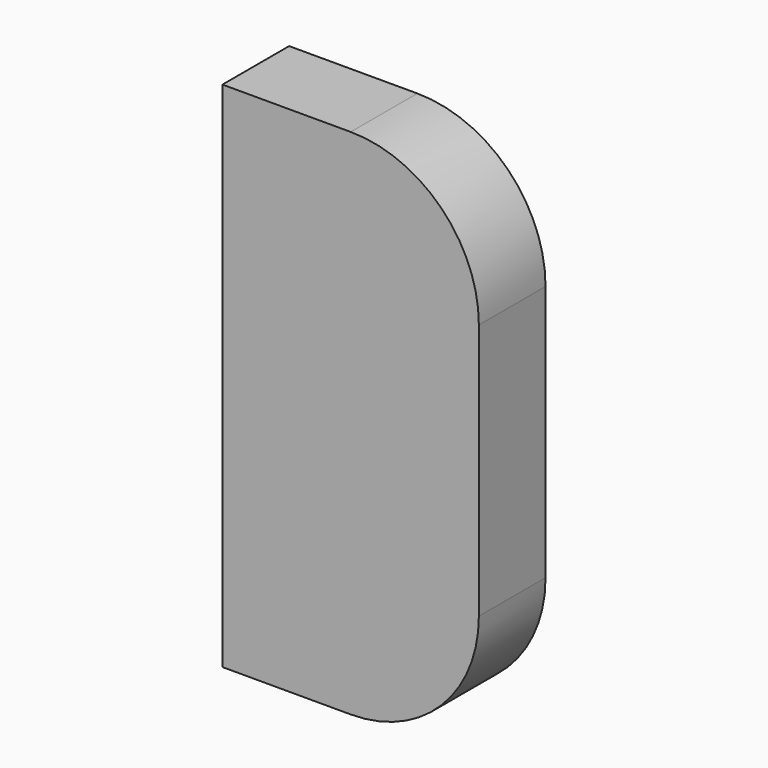
from build123d import *

# Parameters (mm, degrees)
F1_DEPTH = 6.5
F2_T     = -1


with BuildPart() as f1:
    # F0 (on Front) → F1 (new body)
    with BuildSketch(Plane.XZ):
        with BuildLine():
            Line((-12.373366, 21.622597), (-12.373366, -18.377403))
            Line((-12.373366, -18.377403), (-2.373366, -18.377403))
            ThreePointArc((-2.373366, -18.377403), (4.697702, -15.448471), (7.626634, -8.377403))
            Line((7.626634, -8.377403), (7.626634, 11.622597))
            ThreePointArc((7.626634, 11.622597), (4.697702, 18.693665), (-2.373366, 21.622597))
            Line((-2.373366, 21.622597), (-12.373366, 21.622597))
        make_face()
    extrude(amount=F1_DEPTH)

    # F2
    f2_openings = [f1.faces().sort_by_distance(p)[0] for p in [
        (-2.813655, 0, 1.622597),
    ]]
    offset(amount=F2_T, openings=f2_openings)


solid = f1.part
